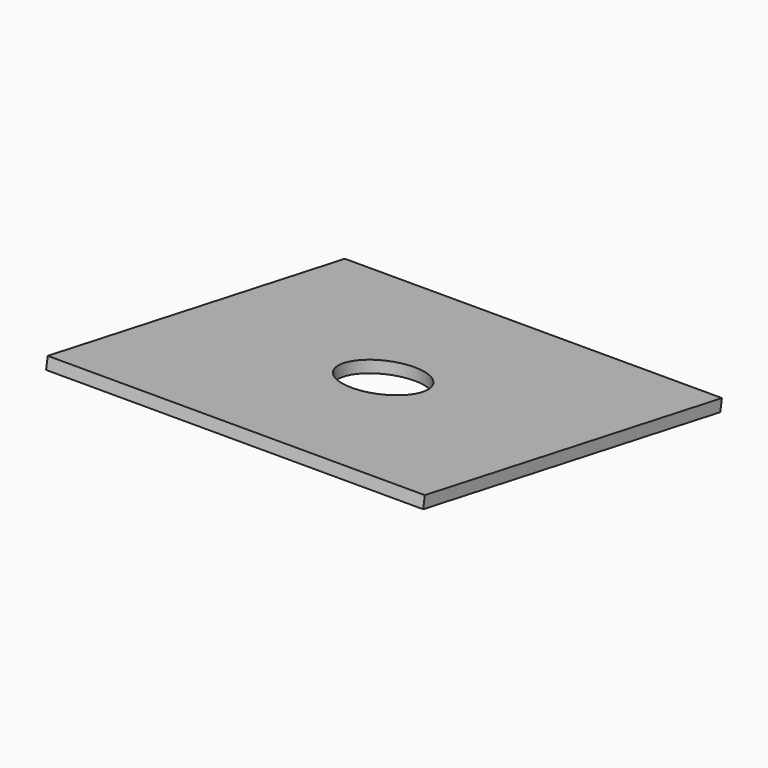
from build123d import *

# Parameters (mm, degrees)
F2_W          = 304.8
F2_H          = 304.8
F3_DEPTH      = 9.525
F4_R          = 31.75
F5_DEPTH      = 25.4
F5_DEPTH_BACK = 25.4


with BuildPart() as f3:
    # F2 (on line) → F3 (new body)
    with BuildSketch(Plane(origin=(0, 0, 0), x_dir=(1, 0, 0), z_dir=(0, 0.1736481777, 0.984807753))):
        Rectangle(F2_W, F2_H)
    extrude(amount=F3_DEPTH)

    # F4 (on Top) → F5 (cut, two sides)
    with BuildSketch(Plane.XY) as f5_sk:
        Circle(F4_R)
    extrude(amount=-F5_DEPTH, mode=Mode.SUBTRACT)
    extrude(f5_sk.sketch, amount=F5_DEPTH_BACK, mode=Mode.SUBTRACT)


solid = f3.part
